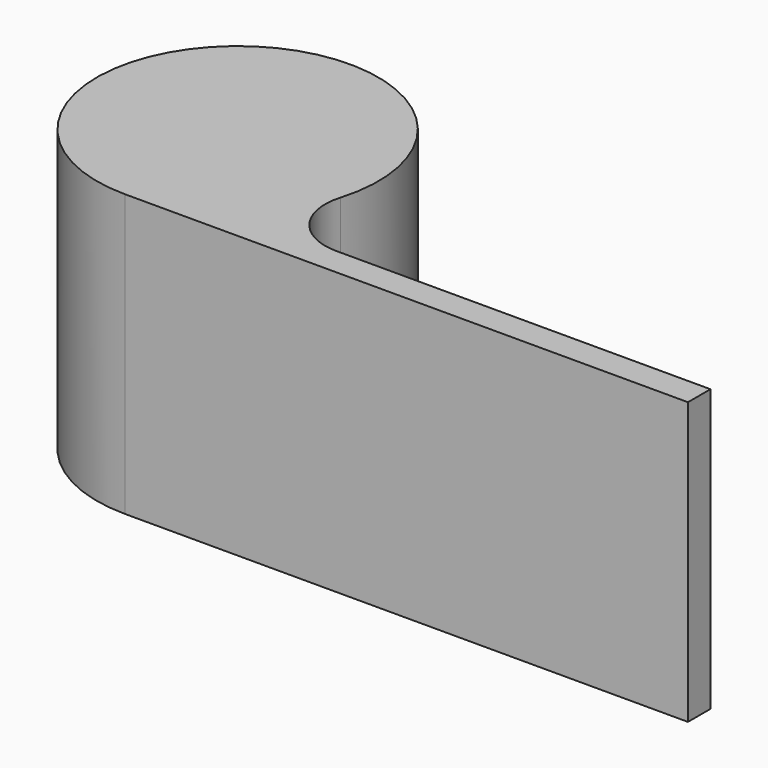
from build123d import *

# Parameters (mm, degrees)
F1_DEPTH = 25


with BuildPart() as f1:
    # F0 (on Top) → F1 (new body)
    with BuildSketch(Plane.XY):
        with BuildLine():
            ThreePointArc((16.77051, -10), (12.761591, -7.988072), (11.978936, -3.571429))
            ThreePointArc((11.978936, -3.571429), (-7.470179, 10.022297), (0, -12.5))
            Line((0, -12.5), (50, -12.5))
            Line((50, -12.5), (50, -10))
            Line((50, -10), (16.77051, -10))
        make_face()
    extrude(amount=F1_DEPTH)


solid = f1.part
